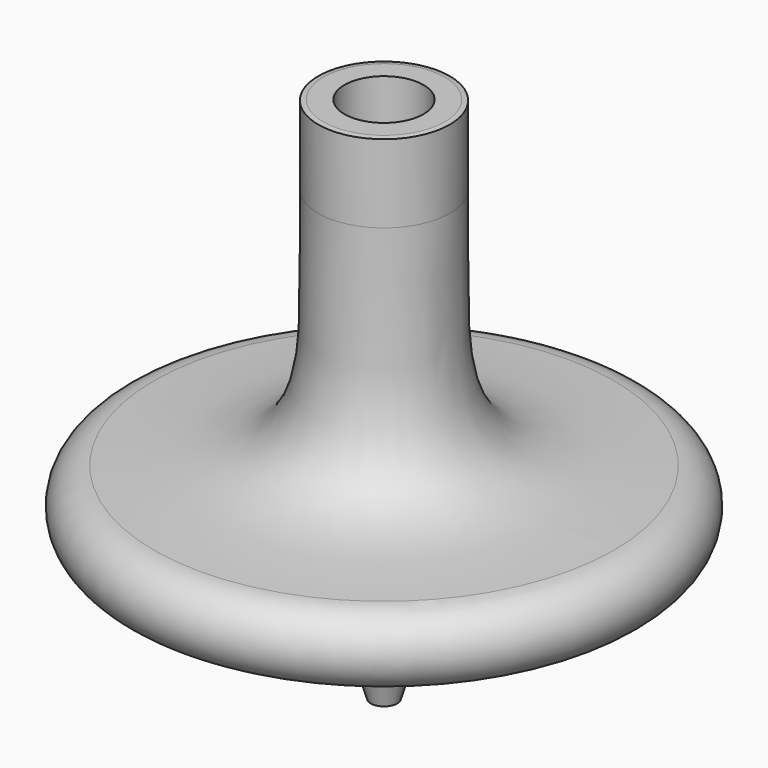
from build123d import *


with BuildPart() as f1:
    # F0 (on Front) → F1 (revolve)
    with BuildSketch(Plane.XZ):
        with BuildLine():
            Line((7.3025, 49.9351416626), (4.7625, 49.9351416626))
            Line((4.7625, 49.9351416626), (4.7625, 40.3847416626))
            Line((4.7625, 40.3847416626), (0, 40.3847416626))
            Line((0, 40.3847416626), (0, 6.8790409714))
            Line((0, 6.8790409714), (0, 0))
            Line((0, 0), (1.5875, 0))
            Line((1.5875, 0), (1.5875, -13.5648583374))
            add(Edge.make_bspline(
                [(1.5875, -13.5648583374), (2.197826211, -11.343300191), (3.4507124513, -6.7828543454), (9.3827411245, -1.5374513186), (20.2289245805, 1.8522698942), (26.5021930747, 2.6866479243), (29.49943192, 3.0852966105)],
                knots=[0, 0, 0, 0, 0.221273734, 0.454233837, 0.7392441363, 1, 1, 1, 1], degree=3))
            ThreePointArc((29.49943192, 3.0852966105), (31.695299556, 7.825879337), (27.6678465307, 11.1537287012))
            add(Edge.make_bspline(
                [(27.6678465307, 11.1537287012), (26.2216893508, 11.2234465231), (22.8965880234, 11.3837464036), (14.647665222, 12.1059748712), (10.4700064296, 15.3881169493), (7.8159786412, 21.4408473295), (7.9325491577, 33.2367031168), (7.91835801, 38.2405007706), (7.9121207818, 40.4397472739)],
                knots=[0, 0, 0, 0, 0.1378285483, 0.3169046183, 0.456687677, 0.6146757849, 0.8306440445, 1, 1, 1, 1], degree=3))
            Line((7.9121207818, 40.4397472739), (7.9121207818, 49.8497076333))
            Line((7.9121207818, 49.8497076333), (7.3025, 49.9351416626))
        make_face()
    revolve(axis=Axis((0, 0, 20.1923708313), (0, 0, -1)))


solid = f1.part
